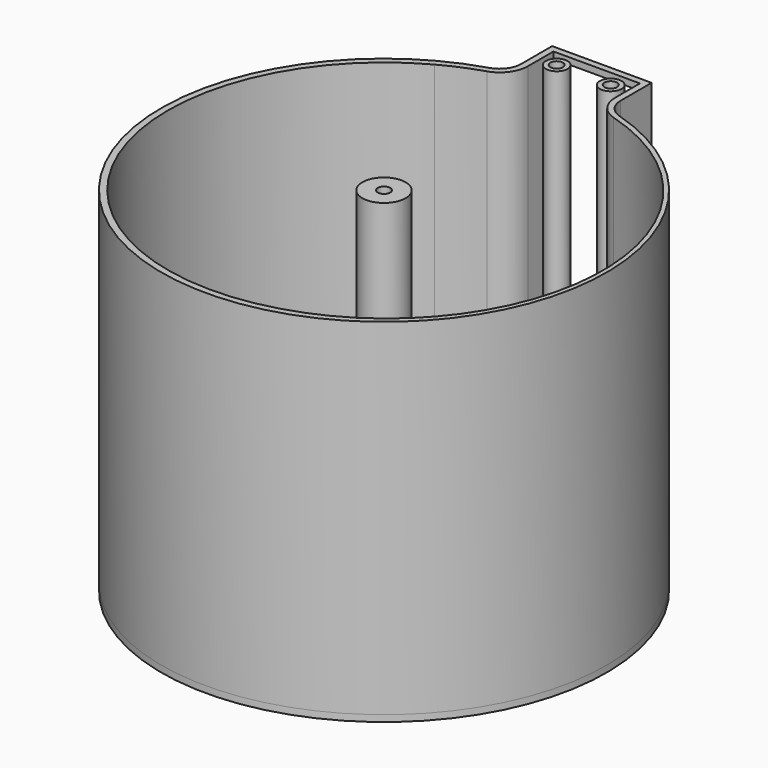
from build123d import *

# Parameters (mm, degrees)
F0_R     = 2.5
F0_R_2   = 5
F1_DEPTH = 80
F3_DEPTH = 1.5
F4_W     = 20
F4_H     = 78.5
F5_DEPTH = 1.5
F6_R     = 1.45
F7_DEPTH = 25


with BuildPart() as f1:
    # F0 (on Top) → F1 (new body)
    with BuildSketch(Plane.XY):
        with BuildLine():
            ThreePointArc((-11.5, 54.037024), (-12.481239, 51.062204), (-15.039823, 49.254987))
            ThreePointArc((-15.039823, 49.254987), (0, -51.5), (15.039823, 49.254987))
            ThreePointArc((15.039823, 49.254987), (12.481239, 51.062204), (11.5, 54.037024))
            Line((11.5, 54.037024), (11.5, 63))
            Line((11.5, 63), (-11.5, 63))
            Line((-11.5, 63), (-11.5, 54.037024))
        make_face()
        with BuildLine():
            ThreePointArc((14.128187, -47.962426), (-46.265444, -18.960715), (-23.594284, 44.082987))
            ThreePointArc((-23.594284, 44.082987), (-19.172369, 46.219688), (-14.562166, 47.912278))
            ThreePointArc((-14.562166, 47.912278), (-11.263306, 50.266106), (-10, 54.116696))
            Line((-10, 54.116696), (-10, 61.5))
            Line((-10, 61.5), (10, 61.5))
            Line((10, 61.5), (10, 54.326904))
            ThreePointArc((10, 54.326904), (11.293239, 50.435935), (14.658351, 48.093259))
            ThreePointArc((14.658351, 48.093259), (50.491326, -0.080985), (14.229822, -47.933499))
            ThreePointArc((14.229822, -47.933499), (14.179012, -47.94799), (14.128187, -47.962426))
        make_face(mode=Mode.SUBTRACT)
        with Locations((-6.25, 57.75)):
            Circle(F0_R)
        with Locations((6.25, 57.75)):
            Circle(F0_R)
        Circle(F0_R_2)
    extrude(amount=F1_DEPTH)

    # F2 (on face) → F3 (join)
    with BuildSketch(Plane(origin=(0, 0, 0), x_dir=(1, 0, 0), z_dir=(0, 0, -1))):
        with BuildLine():
            ThreePointArc((11.5, -54.037024), (12.481239, -51.062204), (15.039823, -49.254987))
            ThreePointArc((15.039823, -49.254987), (0, 51.5), (-15.039823, -49.254987))
            ThreePointArc((-15.039823, -49.254987), (-12.481239, -51.062204), (-11.5, -54.037024))
            Line((-11.5, -54.037024), (-11.5, -63))
            Line((-11.5, -63), (11.5, -63))
            Line((11.5, -63), (11.5, -54.037024))
        make_face()
    extrude(amount=F3_DEPTH)

    # F4 (on face) → F5 (cut, through all)
    with BuildSketch(Plane(origin=(0, 63, 0), x_dir=(-1, 0, 0), z_dir=(0, 1, 0))):
        with Locations((0, 39.25)):
            Rectangle(F4_W, F4_H)
    extrude(amount=-F5_DEPTH, mode=Mode.SUBTRACT)

    # F6 (on face) → F7 (cut)
    with BuildSketch(Plane.XY.offset(80)):
        Circle(F6_R)
        with Locations((-6.25, 57.75)):
            Circle(F6_R)
        with Locations((6.25, 57.75)):
            Circle(F6_R)
    extrude(amount=-F7_DEPTH, mode=Mode.SUBTRACT)


solid = f1.part
